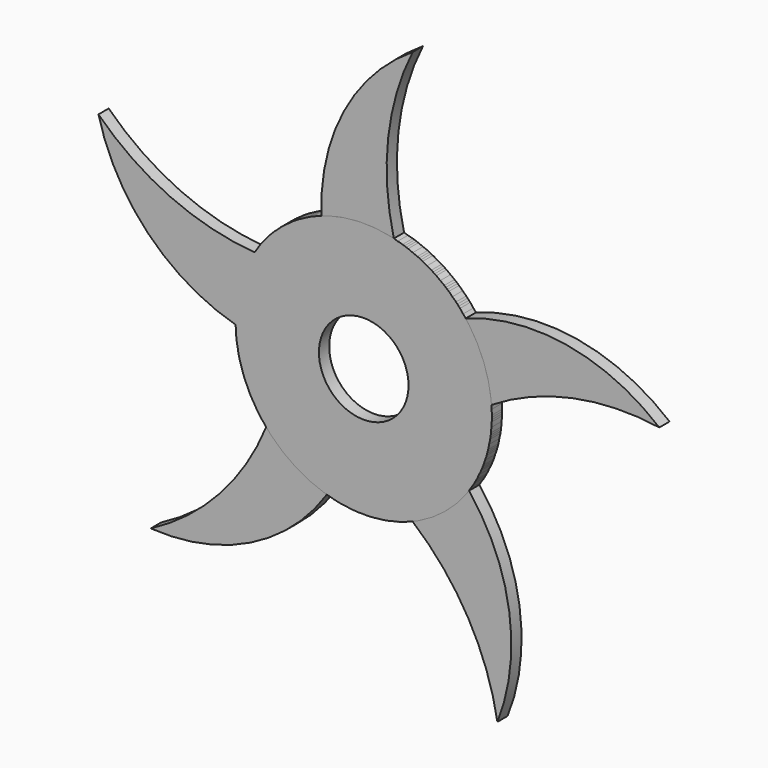
from build123d import *

# Parameters (mm, degrees)
F0_R     = 12.7
F1_DEPTH = 0.635
F3_DEPTH = 0.635
F4_COUNT = 5
F5_R     = 4.439905
F6_DEPTH = 0.635


with BuildPart() as f1:
    # F0 (on Front) → F1 (new body, symmetric)
    with BuildSketch(Plane.XZ):
        Circle(F0_R)
    extrude(amount=F1_DEPTH, both=True)

    # F2 (on Front) → F3 (join, symmetric)
    with BuildSketch(Plane.XZ):
        with BuildLine():
            Line((-3.907746, 9.398649), (3.907746, 9.398649))
            ThreePointArc((3.907746, 9.398649), (2.29972, 19.408061), (4.856857, 29.218012))
            ThreePointArc((4.856857, 29.218012), (-2.543282, 20.642892), (-3.907746, 9.398649))
        make_face()
    extrude(amount=F3_DEPTH, both=True)


with BuildPart() as f4_1:
    # F4: instance of F1
    add(f1.part.rotate(Axis((0, -0.635, 0), (0, 1, 0)), 1 * 360 / F4_COUNT))


with BuildPart() as f4_2:
    # F4: instance of F1
    add(f1.part.rotate(Axis((0, -0.635, 0), (0, 1, 0)), 2 * 360 / F4_COUNT))


with BuildPart() as f4_3:
    # F4: instance of F1
    add(f1.part.rotate(Axis((0, -0.635, 0), (0, 1, 0)), 3 * 360 / F4_COUNT))


with BuildPart() as f4_4:
    # F4: instance of F1
    add(f1.part.rotate(Axis((0, -0.635, 0), (0, 1, 0)), 4 * 360 / F4_COUNT))


with BuildPart() as f6_tool:
    # F5 (on Front) → F6 (new body, symmetric)
    with BuildSketch(Plane.XZ):
        Circle(F5_R)
    extrude(amount=F6_DEPTH, both=True)


with BuildPart() as f1_1:
    add(f1.part)

    # F6: cut by f6_tool
    add(f6_tool.part, mode=Mode.SUBTRACT)


with BuildPart() as f4_1_1:
    add(f4_1.part)

    # F6: cut by f6_tool
    add(f6_tool.part, mode=Mode.SUBTRACT)


with BuildPart() as f4_2_1:
    add(f4_2.part)

    # F6: cut by f6_tool
    add(f6_tool.part, mode=Mode.SUBTRACT)


with BuildPart() as f4_3_1:
    add(f4_3.part)

    # F6: cut by f6_tool
    add(f6_tool.part, mode=Mode.SUBTRACT)


with BuildPart() as f4_4_1:
    add(f4_4.part)

    # F6: cut by f6_tool
    add(f6_tool.part, mode=Mode.SUBTRACT)


solid = Compound([f1_1.part, f4_1_1.part, f4_2_1.part, f4_3_1.part, f4_4_1.part])
